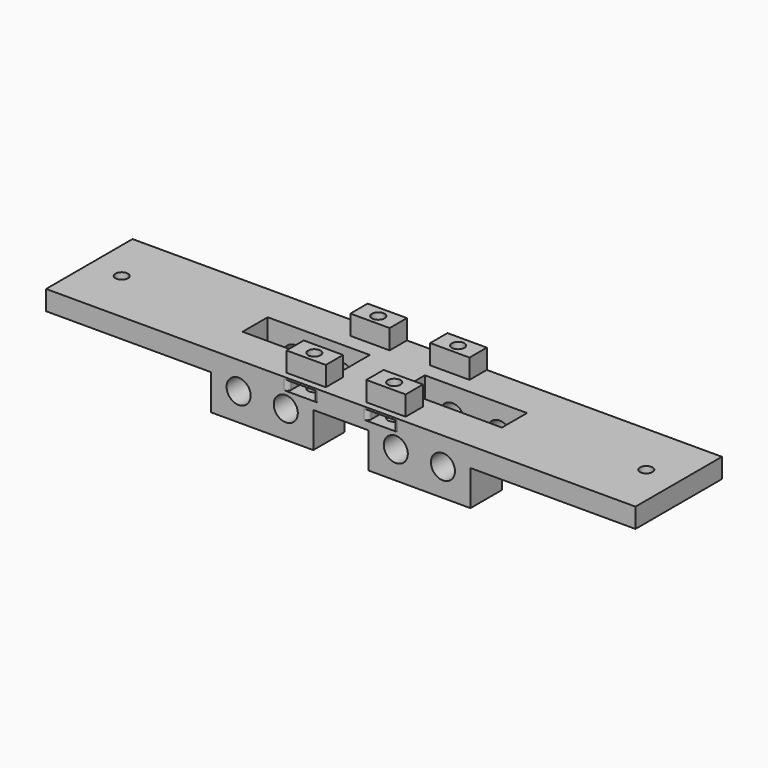
from build123d import *

# Parameters (mm, degrees)
SKETCH042_R     = 3.0625
PAD006_DEPTH    = 27.5
SKETCH043_R     = 1.6
POCKET027_DEPTH = 5
POCKET028_DEPTH = 2
SKETCH046_W     = 26
SKETCH046_H     = 8
POCKET029_DEPTH = 14
SKETCH047_W     = 10
SKETCH047_H     = 5.5
PAD007_DEPTH    = 5
SKETCH048_R     = 1.6
POCKET030_DEPTH = 8.5
SKETCH049_W     = 6.5
SKETCH049_H     = 2.5
POCKET031_DEPTH = 6.5
SKETCH050_W     = 6.5
SKETCH050_H     = 2.5
POCKET032_DEPTH = 8.18
FILLET002_R     = 1


with BuildPart() as part:
    # Sketch042 → Pad006 (new body)
    with BuildSketch(Plane.XZ):
        Polygon((33, -7), (33, 2), (75, 2), (75, 7), (-75, 7), (-75, 2), (-33, 2), (-33, -7), (-7, -7), (-7, 2), (7, 2), (7, -7), align=None)
        with Locations((-14, 0)):
            Circle(SKETCH042_R, mode=Mode.SUBTRACT)
        with Locations((14, 0)):
            Circle(SKETCH042_R, mode=Mode.SUBTRACT)
        with Locations((-26, 0)):
            Circle(SKETCH042_R, mode=Mode.SUBTRACT)
        with Locations((26, 0)):
            Circle(SKETCH042_R, mode=Mode.SUBTRACT)
    extrude(amount=PAD006_DEPTH)

    # Sketch043 (on Face4 of Pad006) → Pocket027 (cut)
    with BuildSketch(Plane(origin=(0, 0, 7), x_dir=(-1, 0, 0), z_dir=(0, 0, 1))):
        with Locations((-66.75, 13.75)):
            Circle(SKETCH043_R)
        with Locations((66.75, 13.75)):
            Circle(SKETCH043_R)
    extrude(amount=-POCKET027_DEPTH, mode=Mode.SUBTRACT)

    # Sketch045 (on Face11 of Pocket027) → Pocket028 (cut)
    with BuildSketch(Plane(origin=(0, 0, 2), x_dir=(1, 0, 0), z_dir=(0, 0, -1))):
        Polygon((-63.5, 13.75), (-65.125, 16.5645825623), (-68.375, 16.5645825623), (-70, 13.75), (-68.375, 10.9354174377), (-65.125, 10.9354174377), align=None)
        Polygon((70, 13.75), (68.375, 16.5645825623), (65.125, 16.5645825623), (63.5, 13.75), (65.125, 10.9354174377), (68.375, 10.9354174377), align=None)
    extrude(amount=-POCKET028_DEPTH, mode=Mode.SUBTRACT)

    # Sketch046 (on Face14 of Pocket028) → Pocket029 (cut)
    with BuildSketch(Plane(origin=(0, 0, 7), x_dir=(-1, 0, 0), z_dir=(0, 0, 1))):
        with Locations((-20, 13.5)):
            Rectangle(SKETCH046_W, SKETCH046_H)
        with Locations((20, 13.5)):
            Rectangle(SKETCH046_W, SKETCH046_H)
    extrude(amount=-POCKET029_DEPTH, mode=Mode.SUBTRACT)

    # Sketch047 (on Face7 of Pocket022) → Pad007 (join)
    with BuildSketch(Plane(origin=(0, 0, 7), x_dir=(-1, 0, 0), z_dir=(0, 0, 1))):
        with Locations((-10.16, 23.07)):
            Rectangle(SKETCH047_W, SKETCH047_H)
        with Locations((10.16, 23.07)):
            Rectangle(SKETCH047_W, SKETCH047_H)
        with Locations((-10.16, 2.75)):
            Rectangle(SKETCH047_W, SKETCH047_H)
        with Locations((10.16, 2.75)):
            Rectangle(SKETCH047_W, SKETCH047_H)
    extrude(amount=PAD007_DEPTH)

    # Sketch048 (on Face52 of Pad007) → Pocket030 (cut)
    with BuildSketch(Plane(origin=(0, 0, 12), x_dir=(-1, 0, 0), z_dir=(0, 0, 1))):
        with Locations((-10.16, 23.195)):
            Circle(SKETCH048_R)
        with Locations((-10.16, 2.875)):
            Circle(SKETCH048_R)
        with Locations((10.16, 23.195)):
            Circle(SKETCH048_R)
        with Locations((10.16, 2.875)):
            Circle(SKETCH048_R)
    extrude(amount=-POCKET030_DEPTH, mode=Mode.SUBTRACT)

    # Sketch049 (on Face2 of Pocket030) → Pocket031 (cut)
    with BuildSketch(Plane(origin=(0, 0, 0), x_dir=(1, 0, 0), z_dir=(0, 1, 0))):
        with Locations((-10.16, -5.25)):
            Rectangle(SKETCH049_W, SKETCH049_H)
        with Locations((10.16, -5.25)):
            Rectangle(SKETCH049_W, SKETCH049_H)
    extrude(amount=-POCKET031_DEPTH, mode=Mode.SUBTRACT)

    # Sketch050 (on Face31 of Pocket031) → Pocket032 (cut)
    with BuildSketch(Plane.XZ.offset(27.5)):
        with Locations((-10.16, 5.25)):
            Rectangle(SKETCH050_W, SKETCH050_H)
        with Locations((10.16, 5.25)):
            Rectangle(SKETCH050_W, SKETCH050_H)
    extrude(amount=-POCKET032_DEPTH, mode=Mode.SUBTRACT)

    # Fillet002
    fillet002_edges = [part.edges().sort_by_distance(p)[0] for p in [
        (-13.41, -27.5, 5.25),
        (-6.91, -27.5, 5.25),
        (6.91, -27.5, 5.25),
        (13.41, -27.5, 5.25),
        (13.41, 0, 5.25),
        (6.91, 0, 5.25),
        (-6.91, 0, 5.25),
        (-13.41, 0, 5.25),
    ]]
    fillet(fillet002_edges, radius=FILLET002_R)


solid = part.part
